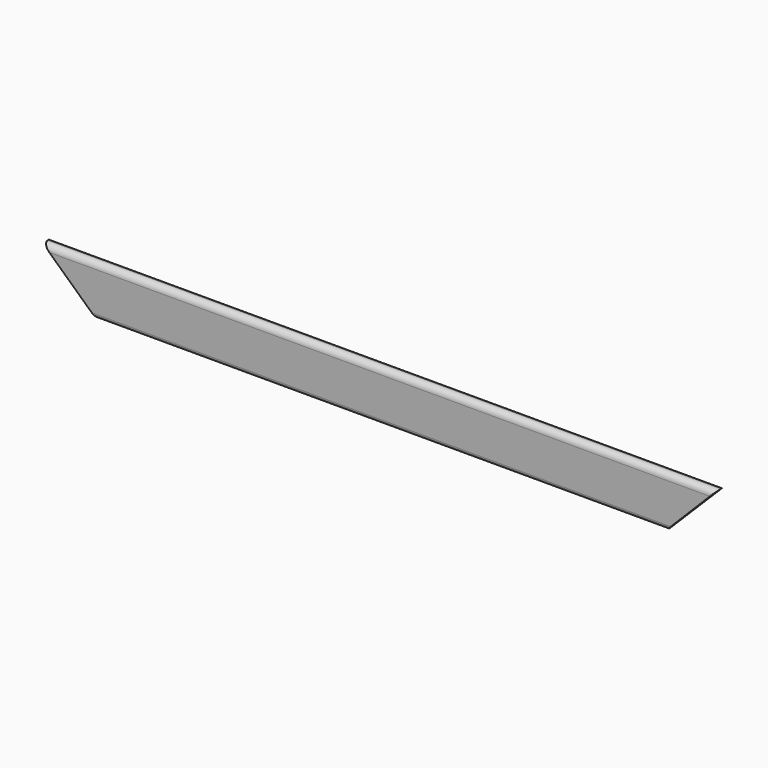
from build123d import *

# Parameters (mm, degrees)
EXTRUDE039434_DEPTH = 500


with BuildPart() as extrude039434_internal_superior:
    # Sketch223 (on Sketch) → Extrude039434 (new body, symmetric)
    with BuildSketch(Plane.XZ):
        Polygon((-600, 2300), (600, 2300), (200, 1900), (-200, 1900), align=None)
    extrude(amount=EXTRUDE039434_DEPTH, both=True)


with BuildPart() as external_trim_horizontal:
    # Sweep011: sweep along a path in Sketch194
    with BuildLine(Plane.XZ.offset(140)) as sweep011_path:
        Line((-390, 2090), (-390, 0))
        Line((-390, 0), (390, 0))
        Line((390, 0), (390, 2090))
        Line((390, 2090), (-390, 2090))
    # Clone2D027 (on Sketch) → Sweep011 (sweep)
    with BuildSketch(Plane(origin=(0, -140, 0), x_dir=(0, 0, 1), z_dir=(1, 0, 0))):
        with BuildLine():
            Line((-61.571224, 10), (-5.678418, 7))
            ThreePointArc((-5.678418, 7), (-1.645147, 5.136003), (0, 1.008624))
            Line((0, 1.008624), (0, 0))
            Line((0, 0), (-70, 0))
            Line((-70, 0), (-70, 2.011499))
            ThreePointArc((-70, 2.011499), (-67.503171, 7.81797), (-61.571224, 10))
        make_face()
    sweep(path=sweep011_path.line, is_frenet=True, transition=Transition.RIGHT)

    # Common: intersect Extrude039434_Internal_superior_
    add(extrude039434_internal_superior.part, mode=Mode.INTERSECT)


solid = external_trim_horizontal.part
